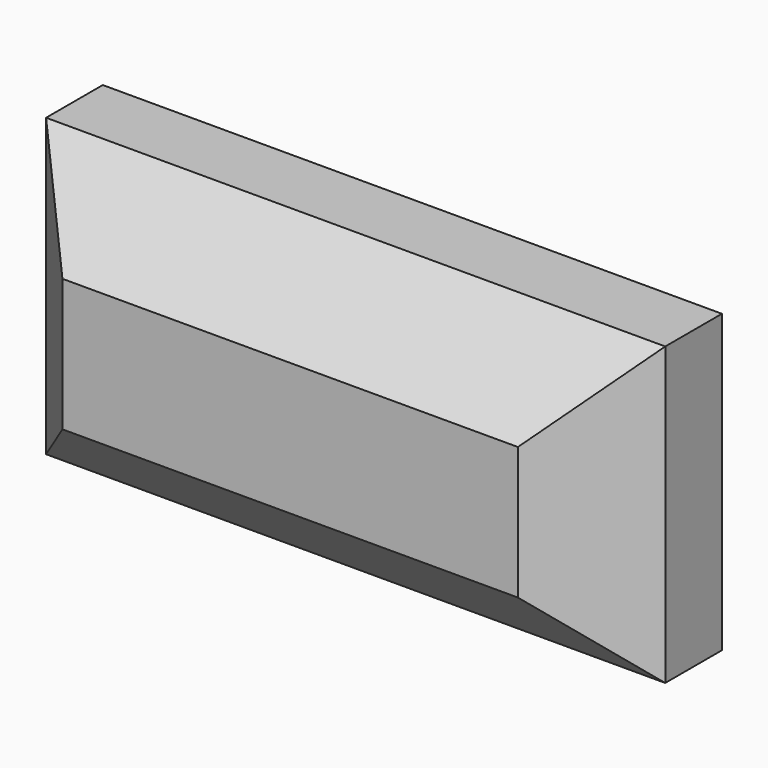
from build123d import *

# Parameters (mm, degrees)
F0_W     = 38.419276
F0_H     = 18.38255
F4_DEPTH = 9.475427
F1_SIZE  = 5.08
F2_W     = 31.43239
F2_H     = 13.718766
F3_DEPTH = 3.943906


with BuildPart() as f4:
    # F0 (on Front) → F4 (new body)
    with BuildSketch(Plane.XZ):
        Rectangle(F0_W, F0_H)
    extrude(amount=F4_DEPTH)

    # F1
    f1_edges = [f4.edges().sort_by_distance(p)[0] for p in [
        (19.209638, -9.475427, 0),
        (0, -9.475427, 9.191275),
        (-19.209638, -9.475427, 0),
        (0, -9.475427, -9.191275),
    ]]
    chamfer(f1_edges, length=F1_SIZE)

    # F2 (on face) → F3 (cut)
    with BuildSketch(Plane(origin=(0, 0, 0), x_dir=(-1, 0, 0), z_dir=(0, 1, 0))):
        Rectangle(F2_W, F2_H)
    extrude(amount=-F3_DEPTH, mode=Mode.SUBTRACT)


solid = f4.part
